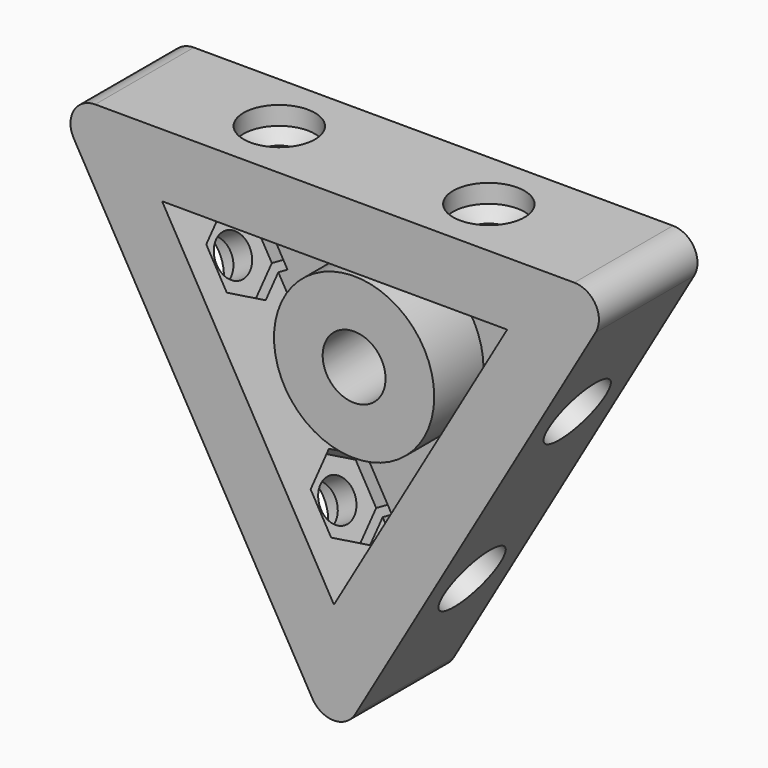
from build123d import *

# Parameters (mm, degrees)
F0_R      = 6.5
F1_DEPTH  = 3
F2_DEPTH  = 10
F4_D      = 3.3
F4_DEPTH  = 8
F4_TIP    = 0.9914200214
F5_D      = 5.8
F5_DEPTH  = 1.5
F5_TIP    = 1.7424957952
F6_START  = -4
F6_DEPTH  = 2
F8_START  = -4
F8_DEPTH  = 2
F9_D      = 5.8
F9_DEPTH  = 1.5
F9_TIP    = 1.7424957952
F10_D     = 3.3
F10_DEPTH = 8
F10_START = 2.2510758
F10_TIP   = 0.9914200214
F12_START = -4
F12_DEPTH = 2
F13_D     = 3.3
F13_DEPTH = 8
F13_TIP   = 0.9914200214
F14_D     = 5.8
F14_DEPTH = 1.5
F14_TIP   = 1.7424957952
F15_R     = 2
F16_DEPTH = 8
F17_D     = 5.1054
F17_DEPTH = 15.81
F17_TIP   = 1.5338169022


with BuildPart() as f1:
    # F0 (on Front) → F1 (new body)
    with BuildSketch(Plane.XZ):
        Polygon((-0.0364092433, -16.1657665361), (14.0181691136, 8.0513519384), (-13.9817598703, 8.1144145977), align=None)
        Circle(F0_R, mode=Mode.SUBTRACT)
    extrude(amount=F1_DEPTH)

    # F0 (on Front) → F2 (join)
    with BuildSketch(Plane.XZ):
        Polygon((-0.0595551194, -26.4425752627), (22.9297194786, 13.169711385), (-22.8701643592, 13.2728638777), align=None)
        Polygon((-13.9817598703, 8.1144145977), (14.0181691136, 8.0513519384), (-0.0364092433, -16.1657665361), align=None, mode=Mode.SUBTRACT)
    extrude(amount=F2_DEPTH)

    # F4
    with Locations(Plane(origin=(11.4350821796, 0, -6.6364319388), x_dir=(0, 1, 0), z_dir=(0.8648970884, 0, -0.501949227))):
        with Locations((-5, -8.5), (-5, 8.5)):
            Hole(F4_D / 2, depth=F4_DEPTH)
            with Locations((0, 0, -(F4_DEPTH + F4_TIP / 2))):  # 118° drill point
                Cone(0, F4_D / 2, F4_TIP, mode=Mode.SUBTRACT)

    # F5
    with Locations(Plane(origin=(11.4350821796, 0, -6.6364319388), x_dir=(0, 1, 0), z_dir=(0.8648970884, 0, -0.501949227))):
        with Locations((-5, -8.5), (-5, 8.5)):
            Hole(F5_D / 2, depth=F5_DEPTH)
            with Locations((0, 0, -(F5_DEPTH + F5_TIP / 2))):  # 118° drill point
                Cone(0, F5_D / 2, F5_TIP, mode=Mode.SUBTRACT)

    # F3 (on face) → F6 (cut)
    with BuildSketch(Plane(origin=(11.4350821796, 0, -6.6364319388), x_dir=(0, 1, 0), z_dir=(0.8648970884, 0, -0.501949227)).offset(F6_START)):
        Polygon((-2.1, -10.1743157806), (-2.1, -6.8256842194), (-5, -5.1513684387), (-7.9, -6.8256842194), (-7.9, -10.1743157806), (-5, -11.8486315613), align=None)
        Polygon((-2.1, 6.8256842194), (-2.1, 10.1743157806), (-5, 11.8486315613), (-7.9, 10.1743157806), (-7.9, 6.8256842194), (-5, 5.1513684387), align=None)
    extrude(amount=-F6_DEPTH, mode=Mode.SUBTRACT)

    # F7 (on face) → F8 (cut)
    with BuildSketch(Plane(origin=(0.0297775597, 0, 13.2212876313), x_dir=(0.9999974637, 0, -0.0022522378), z_dir=(0.0022522378, 0, 0.9999974637)).offset(F8_START)):
        Polygon((6.8256842194, -2.1), (5.1513684387, -5), (6.8256842194, -7.9), (10.1743157806, -7.9), (11.8486315613, -5), (10.1743157806, -2.1), align=None)
        Polygon((-10.1743157806, -2.1), (-11.8486315613, -5), (-10.1743157806, -7.9), (-6.8256842194, -7.9), (-5.1513684387, -5), (-6.8256842194, -2.1), align=None)
    extrude(amount=-F8_DEPTH, mode=Mode.SUBTRACT)

    # F9
    with Locations(Plane(origin=(0.0297775597, 0, 13.2212876313), x_dir=(0.9999974637, 0, -0.0022522378), z_dir=(0.0022522378, 0, 0.9999974637))):
        with Locations((8.5, -5), (-8.5, -5)):
            Hole(F9_D / 2, depth=F9_DEPTH)
            with Locations((0, 0, -(F9_DEPTH + F9_TIP / 2))):  # 118° drill point
                Cone(0, F9_D / 2, F9_TIP, mode=Mode.SUBTRACT)

    # F10
    # its depths count from where the whole tool has entered the part; down to there all is cleared
    with Locations(Plane(origin=(0.0297775597, 0, 13.2212876313), x_dir=(0.9999974637, 0, -0.0022522378), z_dir=(0.0022522378, 0, 0.9999974637)).offset(-F10_START)):
        with Locations((8.5, -5), (-8.5, -5)):
            Hole(F10_D / 2, depth=F10_DEPTH)
            with Locations((0, 0, -(F10_DEPTH + F10_TIP / 2))):  # 118° drill point
                Cone(0, F10_D / 2, F10_TIP, mode=Mode.SUBTRACT)

    # F11 (on face) → F12 (cut)
    with BuildSketch(Plane(origin=(-11.4648597393, 0, -6.5848556925), x_dir=(0, -1, 0), z_dir=(-0.8671493262, 0, -0.4980482367)).offset(F12_START)):
        Polygon((2.1, 6.8256842194), (5, 5.1513684387), (7.9, 6.8256842194), (7.9, 10.1743157806), (5, 11.8486315613), (2.1, 10.1743157806), align=None)
        Polygon((2.1, -10.1743157806), (5, -11.8486315613), (7.9, -10.1743157806), (7.9, -6.8256842194), (5, -5.1513684387), (2.1, -6.8256842194), align=None)
    extrude(amount=-F12_DEPTH, mode=Mode.SUBTRACT)

    # F13
    with Locations(Plane(origin=(-11.4648597393, 0, -6.5848556925), x_dir=(0, -1, 0), z_dir=(-0.8671493262, 0, -0.4980482367))):
        with Locations((5, 8.5), (5, -8.5)):
            Hole(F13_D / 2, depth=F13_DEPTH)
            with Locations((0, 0, -(F13_DEPTH + F13_TIP / 2))):  # 118° drill point
                Cone(0, F13_D / 2, F13_TIP, mode=Mode.SUBTRACT)

    # F14
    with Locations(Plane(origin=(-11.4648597393, 0, -6.5848556925), x_dir=(0, -1, 0), z_dir=(-0.8671493262, 0, -0.4980482367))):
        with Locations((5, 8.5), (5, -8.5)):
            Hole(F14_D / 2, depth=F14_DEPTH)
            with Locations((0, 0, -(F14_DEPTH + F14_TIP / 2))):  # 118° drill point
                Cone(0, F14_D / 2, F14_TIP, mode=Mode.SUBTRACT)

    # F15
    f15_edges = [f1.edges().sort_by_distance(p)[0] for p in [
        (-22.870164, -5, 13.272864),
        (-0.059555, -5, -26.442575),
        (22.929719, -5, 13.169711),
    ]]
    fillet(f15_edges, radius=F15_R)

    # F0 (on Front) → F16 (join)
    with BuildSketch(Plane.XZ):
        Circle(F0_R)
    extrude(amount=F16_DEPTH)

    # F17
    with Locations(Plane(origin=(0, 0, 0), x_dir=(1, 0, 0), z_dir=(0, 1, 0))):
        with Locations((0, 0)):
            Hole(F17_D / 2, depth=F17_DEPTH)
            with Locations((0, 0, -(F17_DEPTH + F17_TIP / 2))):  # 118° drill point
                Cone(0, F17_D / 2, F17_TIP, mode=Mode.SUBTRACT)


solid = f1.part
